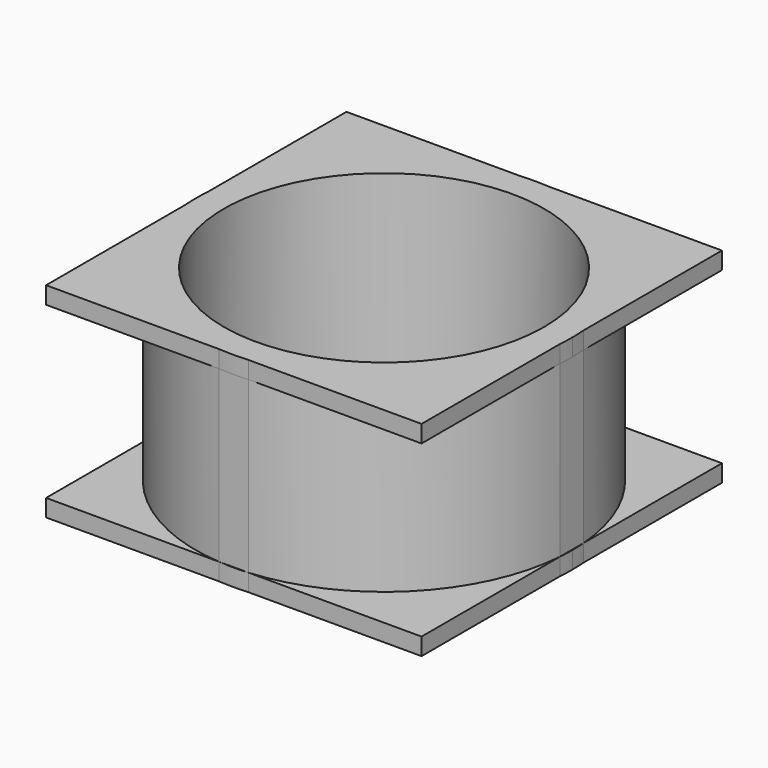
from build123d import *

# Parameters (mm, degrees)
F0_R     = 65
F1_DEPTH = 69
F2_DEPTH = 7
F3_R     = 65
F4_DEPTH = 7


with BuildPart() as f1:
    # F0 (on Top) → F1 (new body)
    with BuildSketch(Plane.XY):
        with BuildLine():
            Line((-5.939693756, -76.2), (5.939693756, -76.2))
            ThreePointArc((5.939693756, -76.2), (54.0449810894, -54.0449810894), (76.2, -5.939693756))
            Line((76.2, -5.939693756), (76.2, 5.939693756))
            ThreePointArc((76.2, 5.939693756), (54.0449810894, 54.0449810894), (5.939693756, 76.2))
            Line((5.939693756, 76.2), (-5.939693756, 76.2))
            ThreePointArc((-5.939693756, 76.2), (-54.0449810894, 54.0449810894), (-76.2, 5.939693756))
            Line((-76.2, 5.939693756), (-76.2, -5.939693756))
            ThreePointArc((-76.2, -5.939693756), (-54.0449810894, -54.0449810894), (-5.939693756, -76.2))
        make_face()
        Circle(F0_R, mode=Mode.SUBTRACT)
    extrude(amount=F1_DEPTH)

    # F0 (on Top) → F2 (join)
    with BuildSketch(Plane.XY):
        with BuildLine():
            Line((5.939693756, -76.2), (76.2, -76.2))
            Line((76.2, -76.2), (76.2, -5.939693756))
            ThreePointArc((76.2, -5.939693756), (54.0449810894, -54.0449810894), (5.939693756, -76.2))
        make_face()
        with BuildLine():
            ThreePointArc((-5.939693756, -76.2), (0, -76.4311452349), (5.939693756, -76.2))
            Line((5.939693756, -76.2), (-5.939693756, -76.2))
        make_face()
        with BuildLine():
            Line((-5.939693756, -76.2), (5.939693756, -76.2))
            ThreePointArc((5.939693756, -76.2), (54.0449810894, -54.0449810894), (76.2, -5.939693756))
            Line((76.2, -5.939693756), (76.2, 5.939693756))
            ThreePointArc((76.2, 5.939693756), (54.0449810894, 54.0449810894), (5.939693756, 76.2))
            Line((5.939693756, 76.2), (-5.939693756, 76.2))
            ThreePointArc((-5.939693756, 76.2), (-54.0449810894, 54.0449810894), (-76.2, 5.939693756))
            Line((-76.2, 5.939693756), (-76.2, -5.939693756))
            ThreePointArc((-76.2, -5.939693756), (-54.0449810894, -54.0449810894), (-5.939693756, -76.2))
        make_face()
        Circle(F0_R, mode=Mode.SUBTRACT)
        with BuildLine():
            Line((76.2, 5.939693756), (76.2, -5.939693756))
            ThreePointArc((76.2, -5.939693756), (76.3733370648, -2.9720948014), (76.4311452349, 0))
            ThreePointArc((76.4311452349, 0), (76.3733370648, 2.9720948014), (76.2, 5.939693756))
        make_face()
        with BuildLine():
            Line((-76.2, -76.2), (-5.939693756, -76.2))
            ThreePointArc((-5.939693756, -76.2), (-54.0449810894, -54.0449810894), (-76.2, -5.939693756))
            Line((-76.2, -5.939693756), (-76.2, -76.2))
        make_face()
        with BuildLine():
            ThreePointArc((5.939693756, 76.2), (54.0449810894, 54.0449810894), (76.2, 5.939693756))
            Line((76.2, 5.939693756), (76.2, 76.2))
            Line((76.2, 76.2), (5.939693756, 76.2))
        make_face()
        with BuildLine():
            ThreePointArc((-76.2, 5.939693756), (-76.4311452349, 0), (-76.2, -5.939693756))
            Line((-76.2, -5.939693756), (-76.2, 5.939693756))
        make_face()
        with BuildLine():
            Line((-5.939693756, 76.2), (5.939693756, 76.2))
            ThreePointArc((5.939693756, 76.2), (0, 76.4311452349), (-5.939693756, 76.2))
        make_face()
        with BuildLine():
            Line((-76.2, 76.2), (-76.2, 5.939693756))
            ThreePointArc((-76.2, 5.939693756), (-54.0449810894, 54.0449810894), (-5.939693756, 76.2))
            Line((-5.939693756, 76.2), (-76.2, 76.2))
        make_face()
    extrude(amount=-F2_DEPTH)

    # F3 (on face) → F4 (join)
    with BuildSketch(Plane.XY.offset(69)):
        with BuildLine():
            Line((5.939693756, -76.2), (76.2, -76.2))
            Line((76.2, -76.2), (76.2, -5.939693756))
            ThreePointArc((76.2, -5.939693756), (54.0449810894, -54.0449810894), (5.939693756, -76.2))
        make_face()
        with BuildLine():
            ThreePointArc((-5.939693756, -76.2), (0, -76.4311452349), (5.939693756, -76.2))
            Line((5.939693756, -76.2), (-5.939693756, -76.2))
        make_face()
        with BuildLine():
            Line((-5.939693756, -76.2), (5.939693756, -76.2))
            ThreePointArc((5.939693756, -76.2), (54.0449810894, -54.0449810894), (76.2, -5.939693756))
            Line((76.2, -5.939693756), (76.2, 5.939693756))
            ThreePointArc((76.2, 5.939693756), (54.0449810894, 54.0449810894), (5.939693756, 76.2))
            Line((5.939693756, 76.2), (-5.939693756, 76.2))
            ThreePointArc((-5.939693756, 76.2), (-54.0449810894, 54.0449810894), (-76.2, 5.939693756))
            Line((-76.2, 5.939693756), (-76.2, -5.939693756))
            ThreePointArc((-76.2, -5.939693756), (-54.0449810894, -54.0449810894), (-5.939693756, -76.2))
        make_face()
        Circle(F3_R, mode=Mode.SUBTRACT)
        with BuildLine():
            Line((76.2, 5.939693756), (76.2, -5.939693756))
            ThreePointArc((76.2, -5.939693756), (76.3733370648, -2.9720948014), (76.4311452349, 0))
            ThreePointArc((76.4311452349, 0), (76.3733370648, 2.9720948014), (76.2, 5.939693756))
        make_face()
        with BuildLine():
            Line((-76.2, -76.2), (-5.939693756, -76.2))
            ThreePointArc((-5.939693756, -76.2), (-54.0449810894, -54.0449810894), (-76.2, -5.939693756))
            Line((-76.2, -5.939693756), (-76.2, -76.2))
        make_face()
        with BuildLine():
            ThreePointArc((5.939693756, 76.2), (54.0449810894, 54.0449810894), (76.2, 5.939693756))
            Line((76.2, 5.939693756), (76.2, 76.2))
            Line((76.2, 76.2), (5.939693756, 76.2))
        make_face()
        with BuildLine():
            ThreePointArc((-76.2, 5.939693756), (-76.4311452349, 0), (-76.2, -5.939693756))
            Line((-76.2, -5.939693756), (-76.2, 5.939693756))
        make_face()
        with BuildLine():
            Line((-5.939693756, 76.2), (5.939693756, 76.2))
            ThreePointArc((5.939693756, 76.2), (0, 76.4311452349), (-5.939693756, 76.2))
        make_face()
        with BuildLine():
            Line((-76.2, 76.2), (-76.2, 5.939693756))
            ThreePointArc((-76.2, 5.939693756), (-54.0449810894, 54.0449810894), (-5.939693756, 76.2))
            Line((-5.939693756, 76.2), (-76.2, 76.2))
        make_face()
    extrude(amount=F4_DEPTH)


solid = f1.part
